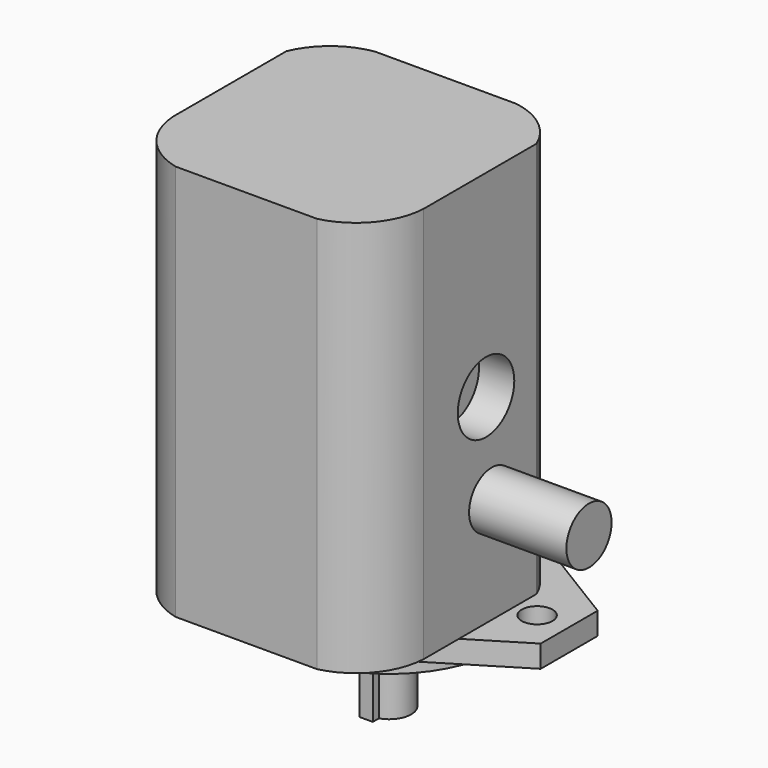
from build123d import *

# Parameters (mm, degrees)
SKETCH_R        = 7.9375
PAD_DEPTH       = 31.7
SKETCH001_W     = 4.76
SKETCH001_H     = 4.76
PAD001_DEPTH    = 25
SKETCH002_R     = 41.275
PAD002_DEPTH    = 6.4
SKETCH003_R     = 5.55
PAD003_DEPTH    = 8
PAD004_DEPTH    = 142.6
SKETCH005_R     = 12.7
POCKET_DEPTH    = 12.7
SKETCH006_R     = 10.16
PAD005_DEPTH    = 35
SKETCH007_R     = 9.525
POCKET001_DEPTH = 12.7


with BuildPart() as part:
    # Sketch → Pad (new body)
    with BuildSketch(Plane.XY):
        Circle(SKETCH_R)
    extrude(amount=PAD_DEPTH)

    # Sketch001 → Pad001 (new body)
    with BuildSketch(Plane(origin=(0, 0, 0), x_dir=(1, 0, 0), z_dir=(0, 0, -1))):
        with Locations((0, 7.9375)):
            Rectangle(SKETCH001_W, SKETCH001_H)
    extrude(amount=-PAD001_DEPTH)

    # Sketch002 → Pad002 (new body)
    with BuildSketch(Plane.XY.offset(31.7)):
        Circle(SKETCH002_R)
    extrude(amount=PAD002_DEPTH)

    # Sketch003 → Pad003 (new body)
    with BuildSketch(Plane.XY.offset(38.1)):
        with BuildLine():
            Line((-64.75, 12.806207), (-64.75, -12.806207))
            Line((-64.75, -12.806207), (-19.05, -40.76883))
            ThreePointArc((-19.05, -40.76883), (0, -45), (19.05, -40.76883))
            Line((19.05, -40.76883), (64.75, -12.806207))
            Line((64.75, 12.806207), (64.75, -12.806207))
            Line((19.05, 40.76883), (64.75, 12.806207))
            ThreePointArc((19.05, 40.76883), (0, 45), (-19.05, 40.76883))
            Line((-64.75, 12.806207), (-19.05, 40.76883))
        make_face()
        with Locations((-53.2, 0)):
            Circle(SKETCH003_R, mode=Mode.SUBTRACT)
        with Locations((53.2, 0)):
            Circle(SKETCH003_R, mode=Mode.SUBTRACT)
    extrude(amount=PAD003_DEPTH)

    # Sketch004 → Pad004 (new body)
    with BuildSketch(Plane.XY.offset(46.1)):
        with BuildLine():
            Line((-45, 10), (-45, -40.8))
            ThreePointArc((-45, -40.8), (-39.107056, -55.772577), (-25.4, -64.2))
            Line((-25.4, -64.2), (25.4, -64.2))
            ThreePointArc((25.4, -64.2), (39.107056, -55.772577), (45, -40.8))
            Line((45, 10), (45, -40.8))
            ThreePointArc((45, 10), (37.218977, 20.269607), (25.4, 25.4))
            Line((-25.4, 25.4), (25.4, 25.4))
            ThreePointArc((-25.4, 25.4), (-37.218977, 20.269607), (-45, 10))
        make_face()
    extrude(amount=PAD004_DEPTH)

    # Sketch005 → Pocket (cut)
    with BuildSketch(Plane.YZ.offset(45)):
        with Locations((-12.7, 117.7)):
            Circle(SKETCH005_R)
    extrude(amount=-POCKET_DEPTH, mode=Mode.SUBTRACT)

    # Sketch006 → Pad005 (new body)
    with BuildSketch(Plane.YZ.offset(45)):
        with Locations((-10.16, 84.2)):
            Circle(SKETCH006_R)
    extrude(amount=PAD005_DEPTH)

    # Sketch007 → Pocket001 (cut)
    with BuildSketch(Plane(origin=(-45, 0, 0), x_dir=(0, -1, 0), z_dir=(-1, 0, 0))):
        with Locations((9.525, 164.2)):
            Circle(SKETCH007_R)
    extrude(amount=-POCKET001_DEPTH, mode=Mode.SUBTRACT)


solid = part.part
